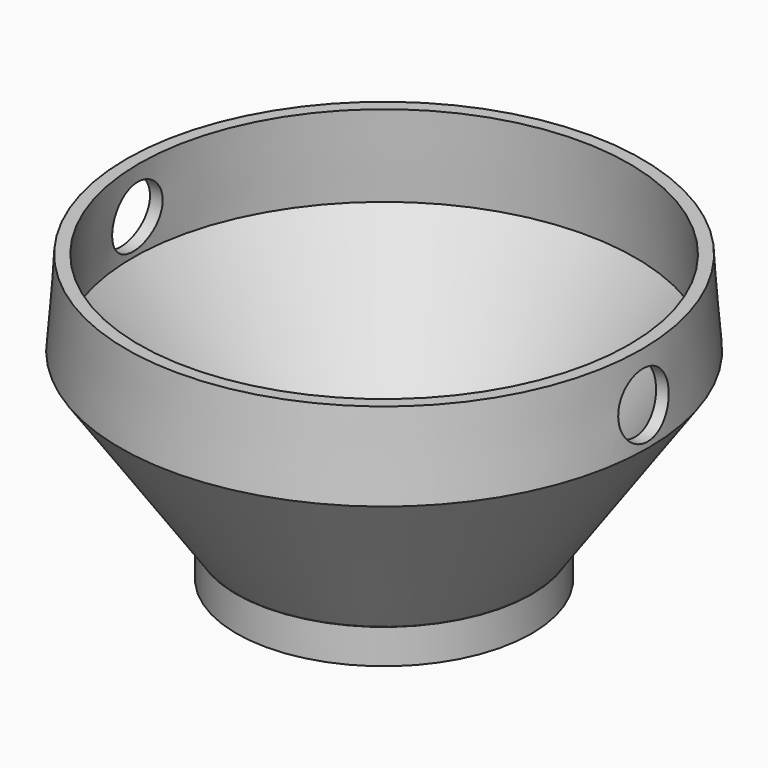
from build123d import *

# Parameters (mm, degrees)
CYLINDER_R                        = 10
CYLINDER_DEPTH                    = 250
CYLINDER_PITCH_ANGLE              = 90
REVOLVE_ONTO_SKETCH006_ROLL_ANGLE = 90
SKETCH003_R                       = 25
SKETCH003_R_2                     = 14
EXTRUDE003_DEPTH                  = 5
SKETCH005_R                       = 1.75
EXTRUDE005_DEPTH                  = 12
SKETCH004_R                       = 25
SKETCH004_R_2                     = 16.2
EXTRUDE004_DEPTH                  = 12
SKETCH002_R                       = 47
SKETCH002_R_2                     = 16.2
EXTRUDE002_DEPTH                  = 11
FUSION001_PLACEMENT_ANGLE         = 180


with BuildPart() as cylinder:
    # Cylinder → Cylinder (new body)
    with BuildSketch(Plane.XY):
        Circle(CYLINDER_R)
    extrude(amount=CYLINDER_DEPTH)


with BuildPart() as cylinder_1:
    # Cylinder pitch: moved
    add(cylinder.part.rotate(Axis((0, 0, 0), (0, 1, 0)), CYLINDER_PITCH_ANGLE))


with BuildPart() as cylinder_2:
    # Cylinder placement: moved
    add(cylinder_1.part.moved(Location((-125, 0, 15.25))))


with BuildPart() as cut001:
    # Sketch006 as drawn → Revolve (revolve)
    with BuildSketch(Plane.XY):
        Polygon((80, 27), (42.889, 80), (46.889, 80), (84, 27), (82, 0), (78, 0), align=None)
    revolve(axis=Axis((0, 0, 0), (0, 1, 0)))


with BuildPart() as cut001_1:
    # Revolve onto Sketch006 roll: moved
    add(cut001.part.rotate(Axis((0, 0, 0), (1, 0, 0)), REVOLVE_ONTO_SKETCH006_ROLL_ANGLE))


with BuildPart() as cut001_2:
    # Revolve onto Sketch006 placement: moved
    add(cut001_1.part)

    # Cut001: cut Cylinder
    add(cylinder_2.part, mode=Mode.SUBTRACT)


with BuildPart() as extrude003:
    # Sketch003 → Extrude003 (new body)
    with BuildSketch(Plane.XY):
        Circle(SKETCH003_R)
        Circle(SKETCH003_R_2, mode=Mode.SUBTRACT)
    extrude(amount=EXTRUDE003_DEPTH)


with BuildPart() as extrude003_1:
    # Extrude003 placement: moved
    add(extrude003.part.moved(Location((0, 0, 12))))


with BuildPart() as extrude005:
    # Sketch005 → Extrude005 (new body)
    with BuildSketch(Plane.XY):
        with Locations((-20, 0)):
            Circle(SKETCH005_R)
        with Locations((0, -20)):
            Circle(SKETCH005_R)
        with Locations((20, 0)):
            Circle(SKETCH005_R)
        with Locations((0, 20)):
            Circle(SKETCH005_R)
    extrude(amount=EXTRUDE005_DEPTH)


with BuildPart() as cut:
    # Sketch004 → Extrude004 (new body)
    with BuildSketch(Plane.XY):
        Circle(SKETCH004_R)
        Circle(SKETCH004_R_2, mode=Mode.SUBTRACT)
    extrude(amount=EXTRUDE004_DEPTH)

    # Cut: cut Extrude005
    add(extrude005.part, mode=Mode.SUBTRACT)


with BuildPart() as fusion001:
    # Sketch002 → Extrude002 (new body)
    with BuildSketch(Plane.XY):
        Circle(SKETCH002_R)
        Circle(SKETCH002_R_2, mode=Mode.SUBTRACT)
    extrude(amount=EXTRUDE002_DEPTH)


with BuildPart() as fusion001_1:
    # Extrude002 placement: moved
    add(fusion001.part.moved(Location((0, 0, 17))))

    # Fusion: union Extrude003, Cut
    add(extrude003_1.part)
    add(cut.part)


with BuildPart() as fusion001_2:
    # Fusion placement: moved
    add(fusion001_1.part.moved(Location((0, 0, 63))))

    # Fusion001: union Cut001
    add(cut001_2.part)


with BuildPart() as fusion001_3:
    # Fusion001 placement: moved
    add(fusion001_2.part.rotate(Axis((0, 0, 0), (1, 0, 0)), FUSION001_PLACEMENT_ANGLE))


solid = fusion001_3.part
